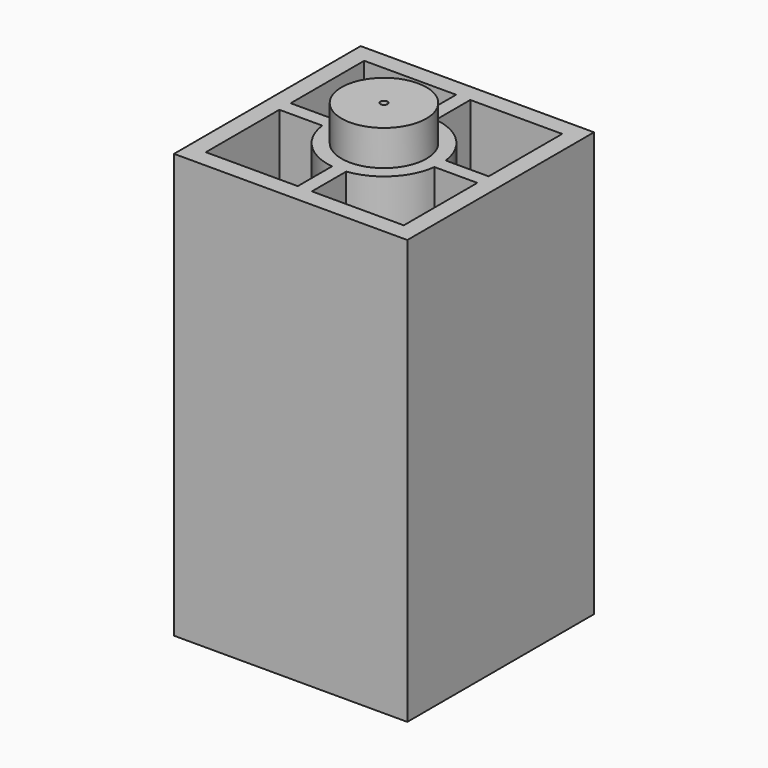
from build123d import *

# Parameters (mm, degrees)
F0_W     = 33
F0_H     = 33
F0_R     = 6
F1_DEPTH = 60
F2_DEPTH = 65


with BuildPart() as f1:
    # F0 (on Top) → F1 (new body)
    with BuildSketch(Plane.XY):
        Rectangle(F0_W, F0_H)
        Polygon((1, 14), (14, 14), (14, 1), (14, -1), (14, -14), (1, -14), (-1, -14), (-14, -14), (-14, -1), (-14, 1), (-14, 14), (-1, 14), align=None, mode=Mode.SUBTRACT)
        with BuildLine():
            Line((14, -1), (14, 1))
            Line((14, 1), (7.937254, 1))
            ThreePointArc((7.937254, 1), (5.656854, 5.656854), (1, 7.937254))
            ThreePointArc((1, 7.937254), (0, 8), (-1, 7.937254))
            ThreePointArc((-1, 7.937254), (-5.656854, 5.656854), (-7.937254, 1))
            ThreePointArc((-7.937254, 1), (-8, 0), (-7.937254, -1))
            ThreePointArc((-7.937254, -1), (-5.656854, -5.656854), (-1, -7.937254))
            ThreePointArc((-1, -7.937254), (0, -8), (1, -7.937254))
            ThreePointArc((1, -7.937254), (5.656854, -5.656854), (7.937254, -1))
            Line((7.937254, -1), (14, -1))
        make_face()
        Circle(F0_R, mode=Mode.SUBTRACT)
        with BuildLine():
            Line((-7.937254, 1), (-14, 1))
            Line((-14, 1), (-14, -1))
            Line((-14, -1), (-7.937254, -1))
            ThreePointArc((-7.937254, -1), (-8, 0), (-7.937254, 1))
        make_face()
        with BuildLine():
            Line((-1, -14), (1, -14))
            Line((1, -14), (1, -7.937254))
            ThreePointArc((1, -7.937254), (0, -8), (-1, -7.937254))
            Line((-1, -7.937254), (-1, -14))
        make_face()
        with BuildLine():
            Line((1, 7.937254), (1, 14))
            Line((1, 14), (-1, 14))
            Line((-1, 14), (-1, 7.937254))
            ThreePointArc((-1, 7.937254), (0, 8), (1, 7.937254))
        make_face()
    extrude(amount=F1_DEPTH)

    # F0 (on Top) → F2 (join)
    with BuildSketch(Plane.XY):
        Circle(F0_R)
        with BuildLine():
            ThreePointArc((0, -0.5), (-0.5, 0), (0, 0.5))
            ThreePointArc((0, 0.5), (0.353553, 0.353553), (0.5, 0))
            ThreePointArc((0.5, 0), (0.353553, -0.353553), (0, -0.5))
        make_face(mode=Mode.SUBTRACT)
    extrude(amount=F2_DEPTH)


solid = f1.part
